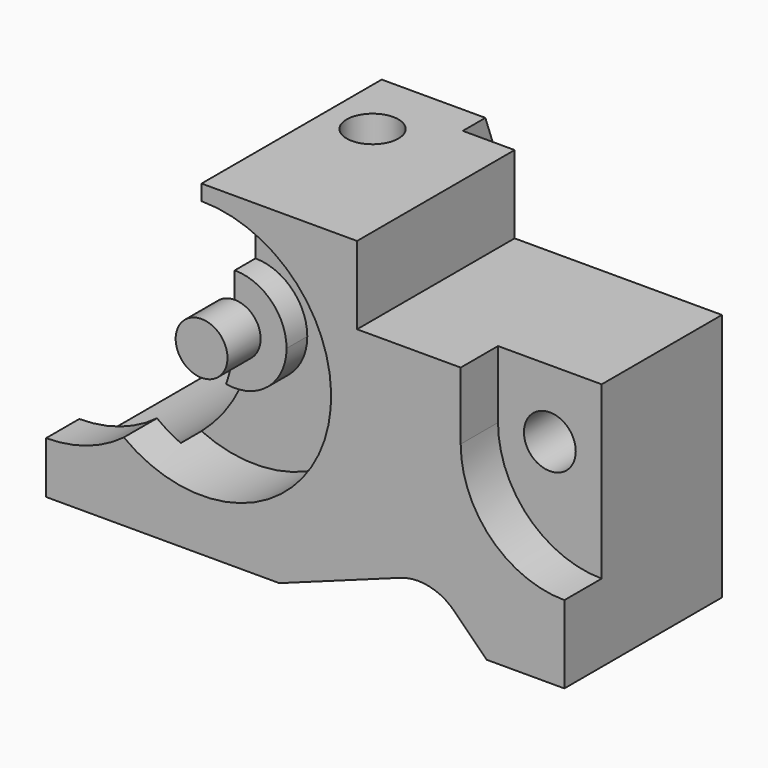
from build123d import *

# Parameters (mm, degrees)
F0_R      = 5
F1_DEPTH  = 50
F3_DEPTH  = 42
F5_DEPTH  = 70.001
F7_DEPTH  = 13
F8_R      = 11.3325068059
F8_R_2    = 5
F9_DEPTH  = 8
F10_W     = 10
F10_H     = 5.4485357832
F10_R     = 5
F11_DEPTH = 63.001
F13_DEPTH = 9


with BuildPart() as f1:
    # F0 (on Front) → F1 (new body)
    with BuildSketch(Plane.XZ):
        with BuildLine():
            Line((-30, 41.7691302225), (-90, 41.7691302225))
            Line((-90, 41.7691302225), (-90, 38.7691302225))
            ThreePointArc((-90, 38.7691302225), (-72.428493116, 31.5523286363), (-65.0017925322, 14.0685018885))
            ThreePointArc((-65.0017925322, 14.0685018885), (-65, 13.7691302225), (-65.0017925322, 13.4697585565))
            ThreePointArc((-65.0017925322, 13.4697585565), (-72.428493116, -4.0140681913), (-90, -11.2308697775))
            Line((-90, -11.2308697775), (-90, -21.2308697775))
            Line((-90, -21.2308697775), (-45, -21.2308697775))
            Line((-45, -21.2308697775), (-21.6603490669, -12.7359315597))
            ThreePointArc((-21.6603490669, -12.7359315597), (-16.0757514943, -12.3698976964), (-11.1690798218, -15.0617899557))
            Line((-11.1690798218, -15.0617899557), (-5, -21.2308697775))
            Line((-5, -21.2308697775), (10, -21.2308697775))
            Line((10, -21.2308697775), (10, 26.7691302225))
            Line((10, 26.7691302225), (-30, 26.7691302225))
            Line((-30, 26.7691302225), (-30, 41.7691302225))
        make_face()
        with Locations((0, 13.7691302225)):
            Circle(F0_R, mode=Mode.SUBTRACT)
        with BuildLine():
            ThreePointArc((-65.0017925322, 13.4697585565), (-65, 13.7691302225), (-65.0017925322, 14.0685018885))
            Line((-65.0017925322, 14.0685018885), (-65.0017925322, 13.4697585565))
        make_face()
    extrude(amount=-F1_DEPTH)

    # F2 (on face) → F3 (cut)
    with BuildSketch(Plane(origin=(0, 50, 0), x_dir=(-1, 0, 0), z_dir=(0, 1, 0))):
        with BuildLine():
            Line((60, 43.7691302225), (60, 13.7691302225))
            ThreePointArc((60, 13.7691302225), (111.2132034356, -7.4440732131), (90, 43.7691302225))
            Line((90, 43.7691302225), (60, 43.7691302225))
        make_face()
    extrude(amount=-F3_DEPTH, mode=Mode.SUBTRACT)

    # F4 (on face) → F5 (cut, through all)
    with BuildSketch(Plane(origin=(-60, 0, 0), x_dir=(0, -1, 0), z_dir=(-1, 0, 0))):
        Polygon((-50, 41.7691302225), (-50, 23.7691302225), (-43.4485357832, 41.7691302225), align=None)
    extrude(amount=-F5_DEPTH, mode=Mode.SUBTRACT)

    # F6 (on face) → F7 (cut)
    with BuildSketch(Plane.XZ):
        with BuildLine():
            Line((-93.3424830437, 13.7691302225), (-85, 13.7691302225))
            ThreePointArc((-85, 13.7691302225), (-42.3223304703, -3.9085393072), (-60, 38.7691302225))
            Line((-60, 38.7691302225), (-60, 47.5649498403))
            Line((-60, 47.5649498403), (-93.3424830437, 47.5649498403))
            Line((-93.3424830437, 47.5649498403), (-93.3424830437, 13.7691302225))
        make_face()
        with BuildLine():
            ThreePointArc((-60, 23.7691302225), (-52.9289321881, 20.8401980344), (-50, 13.7691302225))
            ThreePointArc((-50, 13.7691302225), (-67.0710678119, 6.6980624106), (-60, 23.7691302225))
        make_face(mode=Mode.SUBTRACT)
    extrude(amount=-F7_DEPTH, mode=Mode.SUBTRACT)

    # F8 (on face) → F9 (cut)
    with BuildSketch(Plane.XZ):
        with Locations((-60, 13.7691302225)):
            Circle(F8_R)
        with Locations((-60, 13.7691302225)):
            Circle(F8_R_2, mode=Mode.SUBTRACT)
    extrude(amount=-F9_DEPTH, mode=Mode.SUBTRACT)

    # F10 (on face) → F11 (cut, through all)
    with BuildSketch(Plane.XY.offset(41.7691302225)):
        with Locations((-35, 40.7242678916)):
            Rectangle(F10_W, F10_H)
        Polygon((10, 50), (-40, 50), (-40, 43.4485357832), (-30, 43.4485357832), (-30, 38), (10, 38), align=None)
        with Locations((-51, 30)):
            Circle(F10_R)
    extrude(amount=-F11_DEPTH, mode=Mode.SUBTRACT)

    # F12 (on face) → F13 (cut)
    with BuildSketch(Plane.XZ):
        with BuildLine():
            ThreePointArc((-10, 13.7691302225), (28.7613123618, 6.8399774269), (-5.1986841536, 26.7691302225))
            Line((-5.1986841536, 26.7691302225), (-10, 26.7691302225))
            Line((-10, 26.7691302225), (-10, 13.7691302225))
        make_face()
    extrude(amount=-F13_DEPTH, mode=Mode.SUBTRACT)


solid = f1.part
